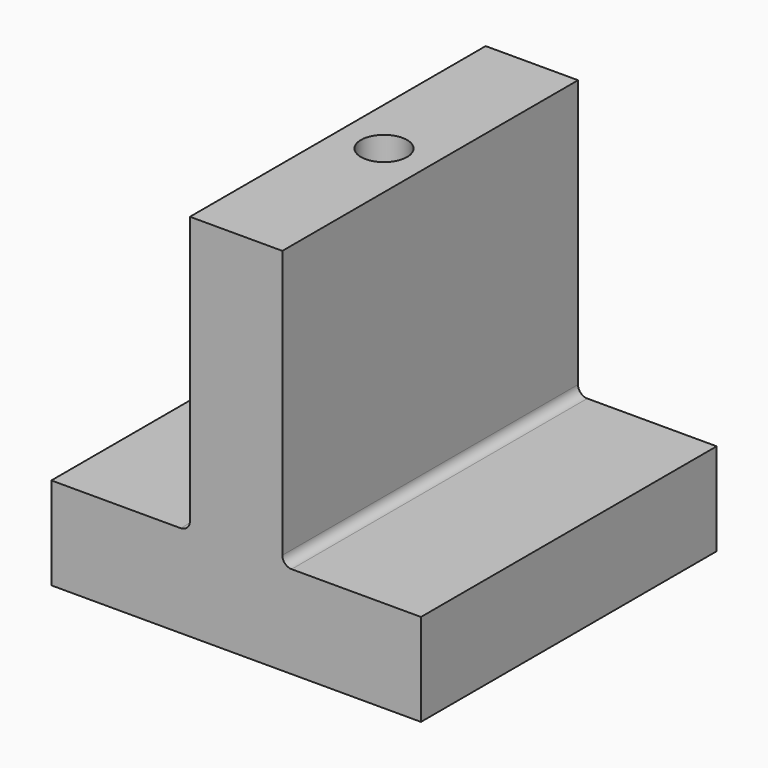
from build123d import *

# Parameters (mm, degrees)
F1_DEPTH = 20
F3_D     = 5
F3_DEPTH = 15.7
F3_TIP   = 1.5021515476
F4_R     = 1


with BuildPart() as f1:
    # F0 (on Front) → F1 (new body, symmetric)
    with BuildSketch(Plane.XZ):
        Polygon((5, 30), (-5, 30), (-5, 0), (-20, 0), (-20, -10), (20, -10), (20, 0), (5, 0), align=None)
    extrude(amount=F1_DEPTH, both=True)

    # F3
    with Locations(Plane.XY.offset(30)):
        with Locations((0, 0)):
            Hole(F3_D / 2, depth=F3_DEPTH)
            with Locations((0, 0, -(F3_DEPTH + F3_TIP / 2))):  # 118° drill point
                Cone(0, F3_D / 2, F3_TIP, mode=Mode.SUBTRACT)

    # F4
    f4_edges = [f1.edges().sort_by_distance(p)[0] for p in [
        (5, 0, 0),
        (-5, 0, 0),
    ]]
    fillet(f4_edges, radius=F4_R)


solid = f1.part
